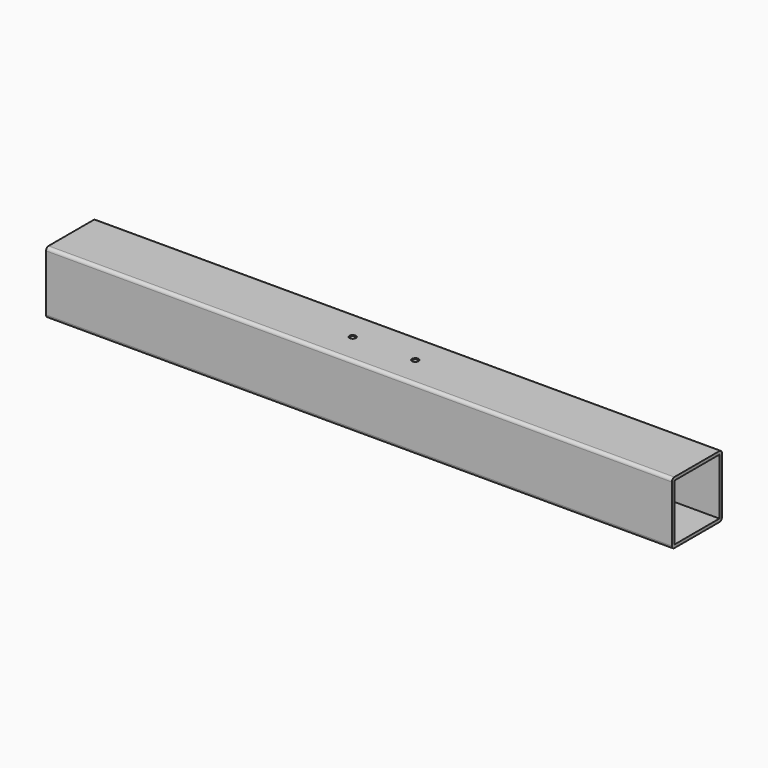
from build123d import *

# Parameters (mm, degrees)
SKETCH004_W             = 36
SKETCH004_H             = 36
PAD004_DEPTH            = 400
SKETCH028_R             = 1.65
HOLE_DEPTH              = 25
HOLE_TIPS_R             = 1.65
CHAMFER_SIZE            = 0.4
BODY004_PLACEMENT_ANGLE = 270


with BuildPart() as part:
    # Sketch004 → Pad004 (new body)
    with BuildSketch(Plane.XZ):
        with BuildLine():
            Line((0, -2), (0, -38))
            ThreePointArc((0, -38), (0.585786, -39.414214), (2, -40))
            Line((2, -40), (38, -40))
            ThreePointArc((38, -40), (39.414214, -39.414214), (40, -38))
            Line((40, -38), (40, -2))
            ThreePointArc((40, -2), (39.414214, -0.585786), (38, 0))
            Line((38, 0), (2, 0))
            ThreePointArc((2, 0), (0.585786, -0.585786), (0, -2))
        make_face()
        with Locations((20, -20)):
            Rectangle(SKETCH004_W, SKETCH004_H, mode=Mode.SUBTRACT)
    extrude(amount=PAD004_DEPTH)

    # Sketch028 (on Face7 of Pad004) → Hole (cut)
    with BuildSketch(Plane(origin=(0, 0, 0), x_dir=(-1, 0, 0), z_dir=(0, 0, 1))):
        with Locations((-20, 180)):
            Circle(SKETCH028_R)
        with Locations((-20, 220)):
            Circle(SKETCH028_R)
    extrude(amount=-HOLE_DEPTH, mode=Mode.SUBTRACT)

    # Hole tips → Hole tip 1 section 0
    with BuildSketch(Plane(origin=(0, 0, -25), x_dir=(-1, 0, 0), z_dir=(0, 0, 1)), mode=Mode.PRIVATE) as hole_tip_1_s0:
        with Locations((-20, 180)):
            Circle(HOLE_TIPS_R)
    loft([hole_tip_1_s0.sketch, Vertex(20, -180, -25.99142)], mode=Mode.SUBTRACT)

    # Hole tips → Hole tip 2 section 0
    with BuildSketch(Plane(origin=(0, 0, -25), x_dir=(-1, 0, 0), z_dir=(0, 0, 1)), mode=Mode.PRIVATE) as hole_tip_2_s0:
        with Locations((-20, 220)):
            Circle(HOLE_TIPS_R)
    loft([hole_tip_2_s0.sketch, Vertex(20, -220, -25.99142)], mode=Mode.SUBTRACT)

    # Chamfer
    chamfer_edges = [part.edges().sort_by_distance(p)[0] for p in [
        (18.35, -180, 0),
        (18.35, -220, 0),
    ]]
    chamfer(chamfer_edges, length=CHAMFER_SIZE)


with BuildPart() as part_1:
    # Body004 placement: moved
    add(part.part.moved(Location((386, 40, 0))).rotate(Axis((386, 40, 0), (0, 0, 1)), BODY004_PLACEMENT_ANGLE))


solid = part_1.part
